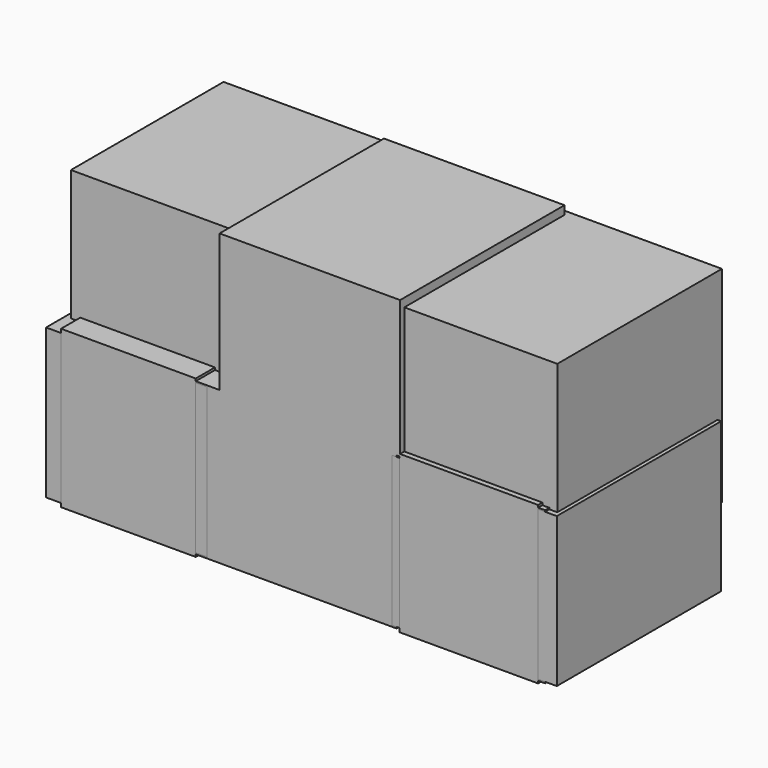
from build123d import *

# Parameters (mm, degrees)
F0_W     = 35.8476921521
F0_H     = 37.6757253713
F1_DEPTH = 50.8
F0_W_2   = 42.0716410177
F0_W_3   = 0.7847153441
F2_W     = 39.7713258862
F2_H     = 36.9965732098
F3_DEPTH = 50.8
F2_W_2   = 40.696233511
F4_W     = 33.2969166338
F4_H     = 38.8464033604
F5_DEPTH = 50.8
F4_W_2   = 34.2218503356
F6_W     = 38.8464033604
F6_H     = 50.8703030646
F7_DEPTH = 50.8
F6_W_2   = 39.7713184357
F6_H_2   = 47.1706353128


with BuildPart() as f1:
    # F0 (on Front) → F1 (new body)
    with BuildSketch(Plane.XZ):
        with Locations((40.2337796986, 0)):
            Rectangle(F0_W, F0_H)
    extrude(amount=F1_DEPTH)


with BuildPart() as f1b:
    # F0 (on Front) → F1, piece 2 (new body)
    with BuildSketch(Plane.XZ):
        with Locations((0.392357672, 0)):
            Rectangle(F0_W_2, F0_H)
        with Locations((-21.0358205089, 0)):
            Rectangle(F0_W_3, F0_H)
        Polygon((-20.6434628368, 18.8378626856), (21.4281781809, 18.8378626856), (22.3099336226, 18.8378626856), (22.3099336226, 52.9146460188), (-22.3099336226, 52.9146460188), (-22.3099336226, 18.8378626856), (-21.4281781809, 18.8378626856), align=None)
        Polygon((-59.746069642, -18.8378626856), (-21.4281781809, -18.8378626856), (-21.4281781809, 18.8378626856), (-22.3099336226, 18.8378626856), (-59.746069642, 18.8378626856), align=None)
    extrude(amount=F1_DEPTH)


with BuildPart() as f3:
    # F2 (on Front) → F3 (new body)
    with BuildSketch(Plane.XZ):
        with Locations((-45.3208126128, 0)):
            Rectangle(F2_W, F2_H)
    extrude(amount=F3_DEPTH)


with BuildPart() as f3b:
    # F2 (on Front) → F3, piece 2 (new body)
    with BuildSketch(Plane.XZ):
        with Locations((40.6962372363, 0)):
            Rectangle(F2_W_2, F2_H)
    extrude(amount=F3_DEPTH)


with BuildPart() as f5:
    # F4 (on Front) → F5 (new body)
    with BuildSketch(Plane.XZ):
        with Locations((-44.8583513498, 0)):
            Rectangle(F4_W, F4_H)
    extrude(amount=F5_DEPTH)


with BuildPart() as f5b:
    # F4 (on Front) → F5, piece 2 (new body)
    with BuildSketch(Plane.XZ):
        with Locations((39.308860898, 0)):
            Rectangle(F4_W_2, F4_H)
    extrude(amount=F5_DEPTH)


with BuildPart() as f7:
    # F6 (on Top) → F7 (new body)
    with BuildSketch(Plane.XY):
        with Locations((40.6962372363, -24.0477714688)):
            Rectangle(F6_W, F6_H)
    extrude(amount=F7_DEPTH)


with BuildPart() as f7b:
    # F6 (on Top) → F7, piece 2 (new body)
    with BuildSketch(Plane.XY):
        with Locations((-43.9334362745, -21.2730299681)):
            Rectangle(F6_W_2, F6_H_2)
    extrude(amount=F7_DEPTH)


solid = Compound([f1.part, f1b.part, f3.part, f3b.part, f5.part, f5b.part, f7.part, f7b.part])
